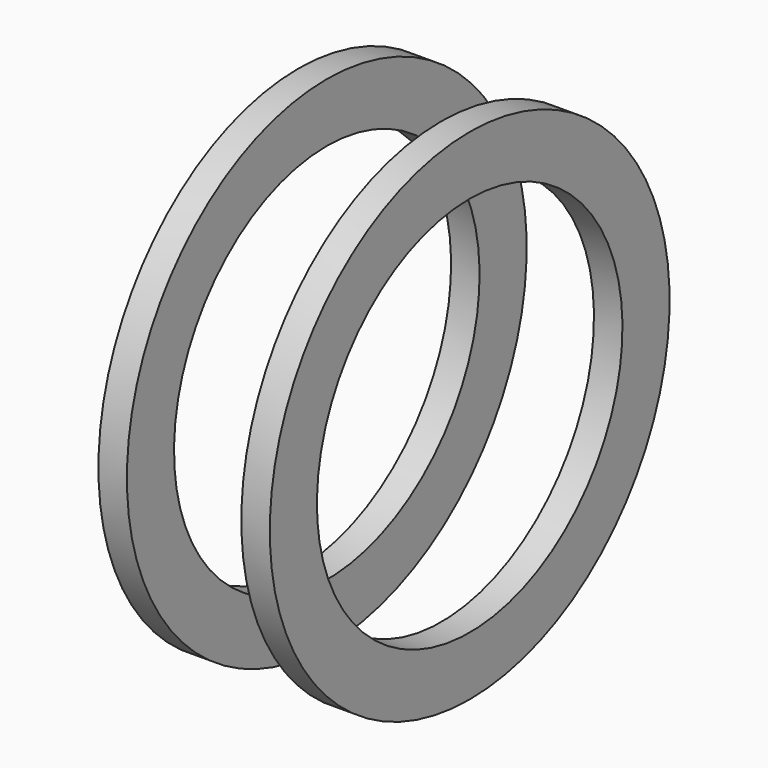
from build123d import *

# Parameters (mm, degrees)
F0_W = 1.088942
F0_H = 2.250794


with BuildPart() as f1:
    # F0 (on Front) → F1 (revolve)
    with BuildSketch(Plane.XZ):
        with Locations((2.730966, 8.425026)):
            Rectangle(F0_W, F0_H)
    revolve(axis=Axis((5.413548, 0, 0), (1, 0, 0)))


with BuildPart() as f2_1:
    # F2: instance of F1
    add(f1.part.mirror(Plane.YZ))


solid = Compound([f1.part, f2_1.part])
